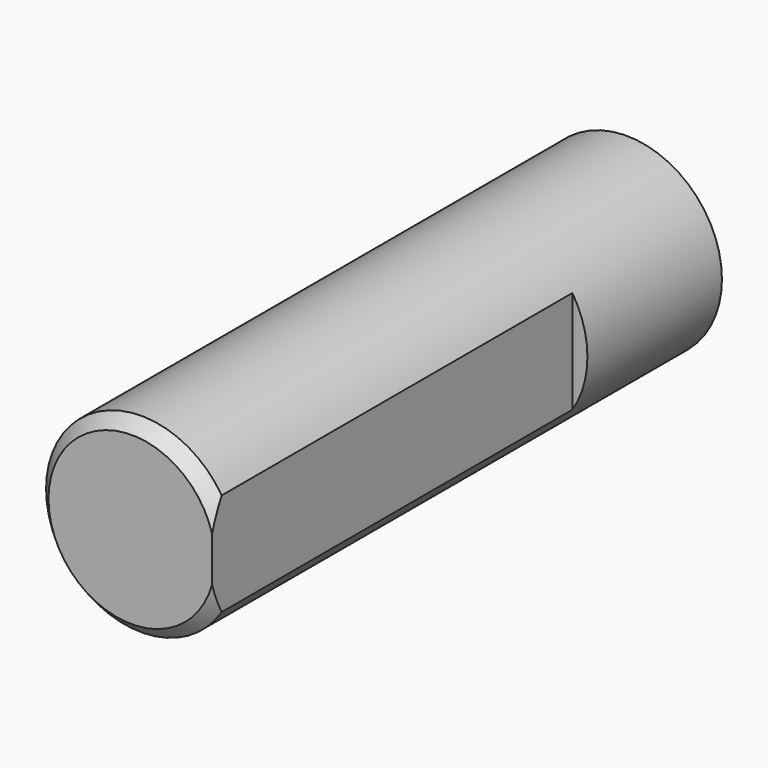
from build123d import *

# Parameters (mm, degrees)
SKETCH015_R          = 3.175
PAD009_DEPTH         = 20.6
SKETCH016_W          = 0.5
SKETCH016_H          = 15
POCKET008_DEPTH      = 3.176
POCKET008_DEPTH_BACK = 3.176
CHAMFER_SIZE         = 0.4


with BuildPart() as part:
    # Sketch015 → Pad009 (new body)
    with BuildSketch(Plane.XZ):
        Circle(SKETCH015_R)
    extrude(amount=PAD009_DEPTH)

    # Sketch016 → Pocket008 (cut, two sides)
    with BuildSketch(Plane.XY) as pocket008_sk:
        with Locations((2.925, -13.1)):
            Rectangle(SKETCH016_W, SKETCH016_H)
    extrude(amount=-POCKET008_DEPTH, mode=Mode.SUBTRACT)
    extrude(pocket008_sk.sketch, amount=POCKET008_DEPTH_BACK, mode=Mode.SUBTRACT)

    # Chamfer
    chamfer_edges = [part.edges().sort_by_distance(p)[0] for p in [
        (-3.175, -20.6, 0),
    ]]
    chamfer(chamfer_edges, length=CHAMFER_SIZE)


solid = part.part
